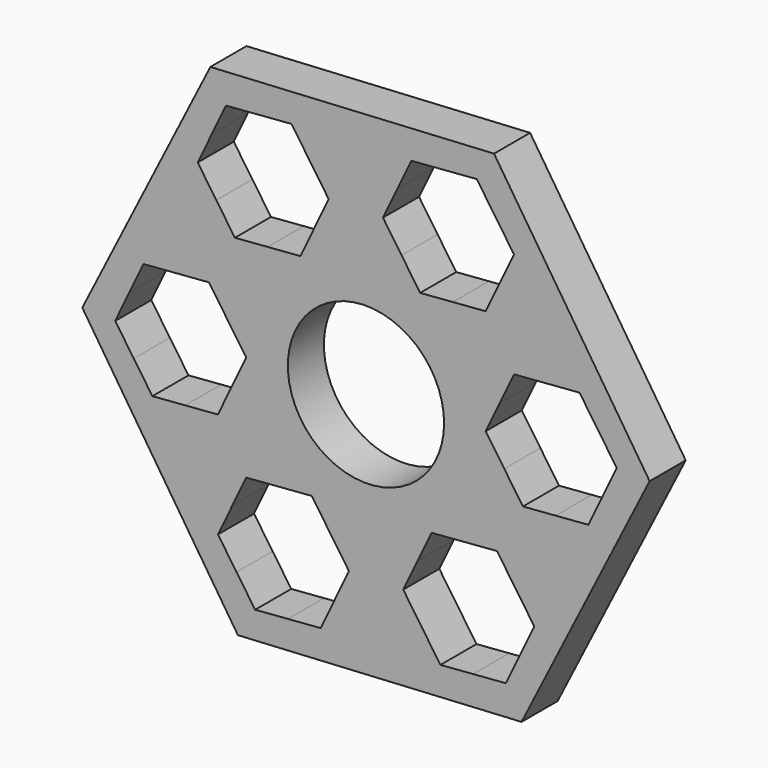
from build123d import *

# Parameters (mm, degrees)
F0_R     = 11
F1_DEPTH = 6.35


with BuildPart() as f1:
    # F0 (on Front) → F1 (new body)
    with BuildSketch(Plane.XZ):
        Polygon((-193.786654, 16.003136), (-175.75543, 51.708528), (-197.661594, 85.176721), (-237.598982, 82.939523), (-255.630206, 47.234132), (-233.724042, 13.765939), align=None)
        Polygon((-223.324158, 34.406609), (-220.705452, 30.594391), (-218.086746, 26.782173), (-220.078869, 22.608199), (-222.070994, 18.434224), (-226.681823, 18.072467), (-231.292655, 17.710709), (-233.911361, 21.522927), (-236.530067, 25.335144), (-234.537943, 29.509118), (-232.545819, 33.683094), (-227.934988, 34.044851), align=None, mode=Mode.SUBTRACT)
        Polygon((-248.379535, 43.288657), (-250.998241, 47.100874), (-249.006117, 51.274848), (-247.013992, 55.448824), (-242.403161, 55.810581), (-237.792332, 56.172339), (-235.173625, 52.360121), (-232.554919, 48.547903), (-234.547043, 44.373929), (-236.539168, 40.199954), (-241.15, 39.838196), (-245.760829, 39.476439), align=None, mode=Mode.SUBTRACT)
        Polygon((-193.995107, 24.255141), (-195.987232, 20.081165), (-200.598064, 19.719407), (-205.208893, 19.35765), (-207.827599, 23.169868), (-210.446305, 26.982086), (-208.454181, 31.15606), (-206.462057, 35.330035), (-201.851227, 35.691792), (-197.240396, 36.05355), (-194.62169, 32.241332), (-192.002984, 28.429114), align=None, mode=Mode.SUBTRACT)
        Polygon((-237.390529, 74.687519), (-235.398404, 78.861495), (-230.787572, 79.223252), (-226.176743, 79.58501), (-223.558037, 75.772792), (-220.939331, 71.960574), (-222.931455, 67.7866), (-224.92358, 63.612625), (-229.534409, 63.250867), (-234.14524, 62.88911), (-236.763946, 66.701328), (-239.382653, 70.513545), align=None, mode=Mode.SUBTRACT)
        with Locations((-215.692818, 49.47133)):
            Circle(F0_R, mode=Mode.SUBTRACT)
        Polygon((-183.006102, 55.654003), (-180.387395, 51.841785), (-182.379519, 47.667812), (-184.371644, 43.493836), (-188.982476, 43.132078), (-193.593305, 42.770321), (-196.212011, 46.582539), (-198.830717, 50.394756), (-196.838593, 54.568731), (-194.846468, 58.742706), (-190.235639, 59.104463), (-185.624808, 59.466221), align=None, mode=Mode.SUBTRACT)
        Polygon((-204.703813, 80.870193), (-200.092981, 81.231951), (-197.474275, 77.419733), (-194.855569, 73.607515), (-196.847694, 69.433539), (-198.839818, 65.259566), (-203.450649, 64.897808), (-208.061478, 64.536051), (-210.680185, 68.348269), (-213.298891, 72.160486), (-211.306766, 76.334462), (-209.314642, 80.508436), align=None, mode=Mode.SUBTRACT)
    extrude(amount=F1_DEPTH)


solid = f1.part
